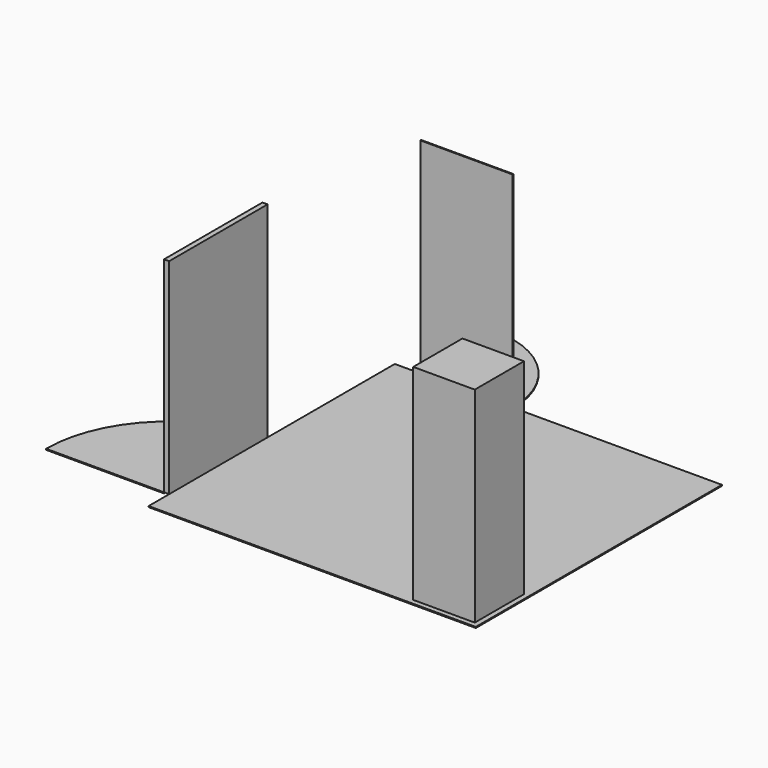
from build123d import *

# Parameters (mm, degrees)
F0_W     = 3190
F0_H     = 3000
F1_DEPTH = 10
F2_W     = 900
F2_H     = 10
F2_W_2   = 50
F2_H_2   = 1200
F3_DEPTH = 2000
F4_W     = 600
F4_H     = 600
F5_DEPTH = 2000
F8_DEPTH = 10
F9_DEPTH = 10


with BuildPart() as f1:
    # F0 (on Top) → F1 (new body)
    with BuildSketch(Plane.XY):
        Rectangle(F0_W, F0_H)
    extrude(amount=F1_DEPTH)


with BuildPart() as f3:
    # F2 (on face) → F3 (new body)
    with BuildSketch(Plane.XY.offset(10)):
        with Locations((-895, 1505)):
            Rectangle(F2_W, F2_H)
        with Locations((-1620, -650)):
            Rectangle(F2_W_2, F2_H_2)
    extrude(amount=F3_DEPTH)

    # F7 (on face) → F8 (join)
    with BuildSketch(Plane(origin=(0, 0, 10), x_dir=(1, 0, 0), z_dir=(0, 0, -1))):
        with BuildLine():
            Line((-1345, -1510), (-1345, -2400))
            ThreePointArc((-1345, -2400), (-712.149307, -2139.92187), (-445.055557, -1510))
            Line((-445.055557, -1510), (-1345, -1510))
        make_face()
    extrude(amount=F8_DEPTH)

    # F6 (on face) → F9 (join)
    with BuildSketch(Plane(origin=(0, 0, 10), x_dir=(1, 0, 0), z_dir=(0, 0, -1))):
        with BuildLine():
            Line((-1645, 1250), (-2795, 1250))
            ThreePointArc((-2795, 1250), (-2461.025404, 419.337614), (-1645, 51.042119))
            Line((-1645, 51.042119), (-1645, 1250))
        make_face()
    extrude(amount=F9_DEPTH)


with BuildPart() as f5:
    # F4 (on face) → F5 (new body)
    with BuildSketch(Plane.XY.offset(10)):
        with Locations((1245, -1150)):
            Rectangle(F4_W, F4_H)
    extrude(amount=F5_DEPTH)


solid = Compound([f1.part, f3.part, f5.part])
